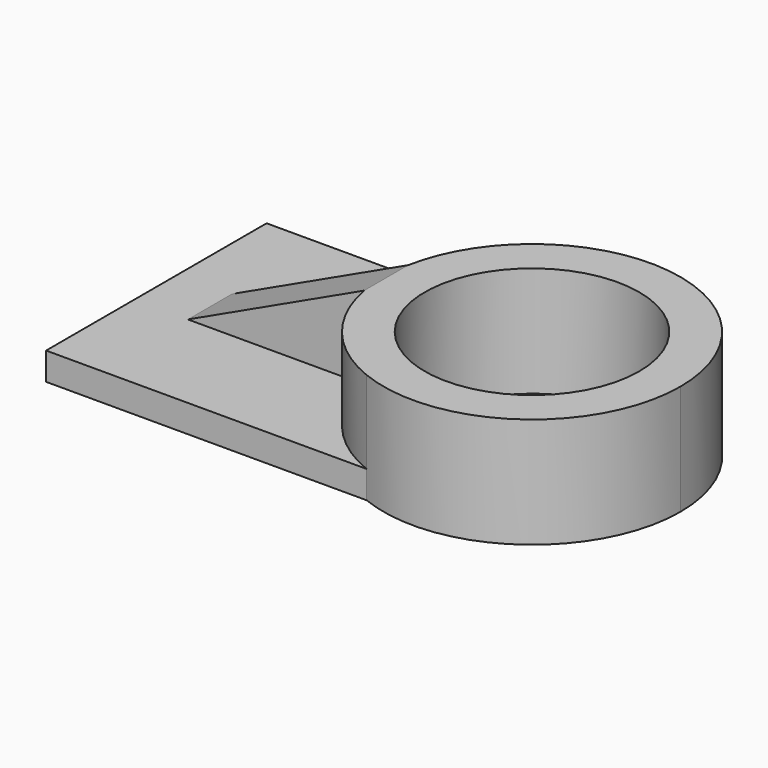
from build123d import *

# Parameters (mm, degrees)
F0_R     = 38.903561
F1_DEPTH = 40
F2_DEPTH = 10
F4_DEPTH = 30
F6_DEPTH = 20


with BuildPart() as f1:
    # F0 (on Top) → F1 (new body)
    with BuildSketch(Plane.XY):
        with BuildLine():
            ThreePointArc((145.735341, -0.967313), (122.074479, 43.625472), (71.883693, 49.032687))
            ThreePointArc((71.883693, 49.032687), (38.032045, -0.967313), (71.883693, -50.967313))
            ThreePointArc((71.883693, -50.967313), (122.074479, -45.560098), (145.735341, -0.967313))
        make_face()
        with Locations((91.883693, -0.967313)):
            Circle(F0_R, mode=Mode.SUBTRACT)
    extrude(amount=F1_DEPTH)

    # F0 (on Top) → F2 (join)
    with BuildSketch(Plane.XY):
        with BuildLine():
            Line((71.883693, 49.032687), (-44.412829, 49.032687))
            Line((-44.412829, 49.032687), (-44.412829, -50.967313))
            Line((-44.412829, -50.967313), (71.883693, -50.967313))
            ThreePointArc((71.883693, -50.967313), (38.032045, -0.967313), (71.883693, 49.032687))
        make_face()
    extrude(amount=F2_DEPTH)

    # F3 (on face) → F4 (join)
    with BuildSketch(Plane.XY.offset(10)):
        with BuildLine():
            ThreePointArc((38.968667, -10.967313), (38.032045, -0.967313), (38.968667, 9.032687))
            Line((38.968667, 9.032687), (-24.967955, 9.032687))
            Line((-24.967955, 9.032687), (-24.967955, -0.967313))
            Line((-24.967955, -0.967313), (-24.967955, -10.967313))
            Line((-24.967955, -10.967313), (38.968667, -10.967313))
        make_face()
    extrude(amount=F4_DEPTH)

    # F5 (on face) → F6 (cut)
    with BuildSketch(Plane.XZ.offset(10.967313)):
        Polygon((-24.967955, 40), (-24.967955, 10), (38.968667, 40), align=None)
    extrude(amount=-F6_DEPTH, mode=Mode.SUBTRACT)


solid = f1.part
